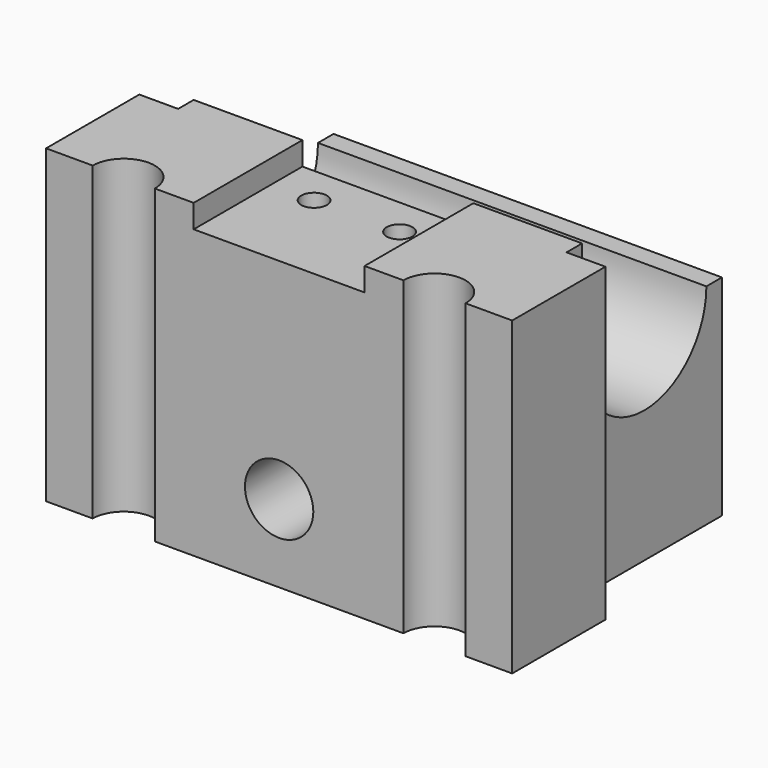
from build123d import *

# Parameters (mm, degrees)
F0_W            = 60
F0_H            = 40
F1_DEPTH        = 40
F2_W            = 5
F2_H            = 25
F3_DEPTH        = 40.001
F5_DEPTH        = 55.001
F7_DEPTH        = 40.001
F8_W            = 22
F8_H            = 17.5
F9_DEPTH        = 3
F11_D           = 3.3
F11_DEPTH       = 20
F11_TIP         = 0.9914200214
F13_D           = 8.8
F13_DEPTH       = 50
F13_CBORE_D     = 14.25
F13_CBORE_DEPTH = 8
F13_TIP         = 2.6437867237


with BuildPart() as f1:
    # F0 (on Top) → F1 (new body)
    with BuildSketch(Plane.XY):
        with Locations((0, 20)):
            Rectangle(F0_W, F0_H)
    extrude(amount=F1_DEPTH)

    # F2 (on face) → F3 (cut, through all)
    with BuildSketch(Plane.XY.offset(40)):
        with Locations((-27.5, 27.5)):
            Rectangle(F2_W, F2_H)
        with Locations((27.5, 27.5)):
            Rectangle(F2_W, F2_H)
    extrude(amount=-F3_DEPTH, mode=Mode.SUBTRACT)

    # F4 (on face) → F5 (cut, through all)
    with BuildSketch(Plane.YZ.offset(25)):
        with BuildLine():
            ThreePointArc((17.5, 27), (27.5, 17), (37.5, 27))
            ThreePointArc((37.5, 27), (27.5, 37), (17.5, 27))
        make_face()
        with BuildLine():
            ThreePointArc((17.5, 27), (27.5, 37), (37.5, 27))
            Line((37.5, 27), (40, 27))
            Line((40, 27), (40, 40))
            Line((40, 40), (17.5, 40))
            Line((17.5, 40), (17.5, 27))
        make_face()
    extrude(amount=-F5_DEPTH, mode=Mode.SUBTRACT)

    # F6 (on face) → F7 (cut, through all)
    with BuildSketch(Plane.XY.offset(40)):
        with BuildLine():
            Line((-24, 0), (-16, 0))
            ThreePointArc((-16, 0), (-20, 4), (-24, 0))
        make_face()
        with BuildLine():
            ThreePointArc((24, 0), (20, 4), (16, 0))
            Line((16, 0), (24, 0))
        make_face()
    extrude(amount=-F7_DEPTH, mode=Mode.SUBTRACT)

    # F8 (on face) → F9 (cut)
    with BuildSketch(Plane.XY.offset(40)):
        with Locations((0, 8.75)):
            Rectangle(F8_W, F8_H)
    extrude(amount=-F9_DEPTH, mode=Mode.SUBTRACT)

    # F11
    with Locations(Plane.XY.offset(37)):
        with Locations((-5.5, 12.5), (5.5, 12.5)):
            Hole(F11_D / 2, depth=F11_DEPTH)
            with Locations((0, 0, -(F11_DEPTH + F11_TIP / 2))):  # 118° drill point
                Cone(0, F11_D / 2, F11_TIP, mode=Mode.SUBTRACT)

    # F13
    with Locations(Plane(origin=(0, 40, 0), x_dir=(-1, 0, 0), z_dir=(0, 1, 0))):
        with Locations((0, 10)):
            CounterBoreHole(F13_D / 2, F13_CBORE_D / 2, F13_CBORE_DEPTH, depth=F13_DEPTH)
            with Locations((0, 0, -(F13_DEPTH + F13_TIP / 2))):  # 118° drill point
                Cone(0, F13_D / 2, F13_TIP, mode=Mode.SUBTRACT)


solid = f1.part
